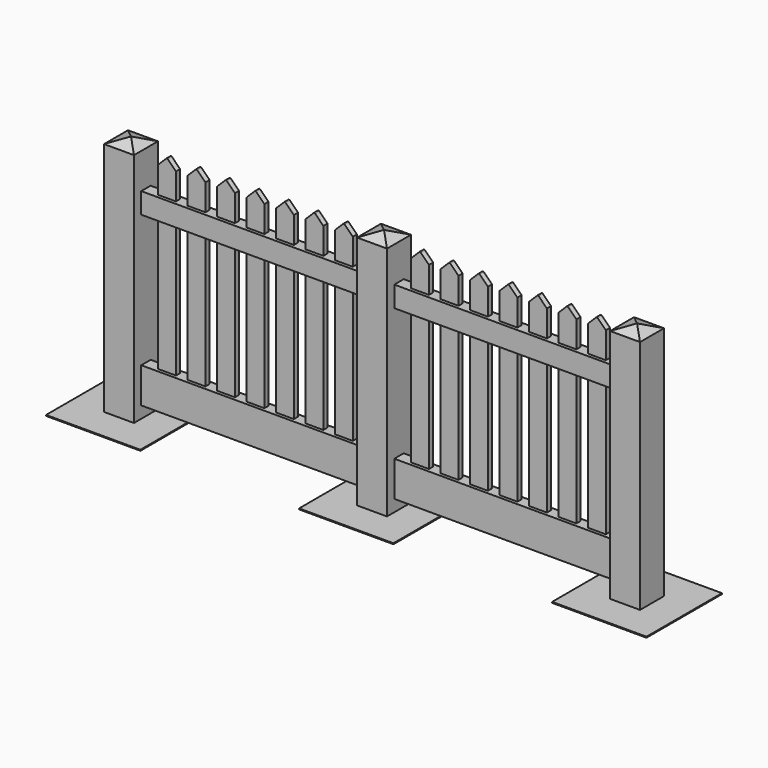
from build123d import *

# Parameters (mm, degrees)
F1_DEPTH      = 63.5
F1_DEPTH_BACK = 63.5
F2_DEPTH      = 25
F2_DEPTH_BACK = 25
F0_W          = 76
F0_H          = 562
F3_DEPTH      = 11
F3_DEPTH_BACK = 11
F4_DEPTH      = 200
F4_DEPTH_BACK = 200
F6_DEPTH      = 5000


with BuildPart() as f1:
    # F0 (on Front) → F1 (new body, two sides)
    with BuildSketch(Plane.XZ) as f1_sk:
        Polygon((348.2347528934, -300), (348.2347528934, -450), (348.2347528934, -500), (411.7347528934, -500), (475.2347528934, -500), (475.2347528934, -450), (475.2347528934, -300), (475.2347528934, 262), (475.2347528934, 350), (475.2347528934, 500), (411.7347528934, 523.3989357948), (348.2347528934, 500), (348.2347528934, 350), (348.2347528934, 262), align=None)
        Polygon((348.2347528934, -300), (348.2347528934, -450), (348.2347528934, -500), (411.7347528934, -500), (475.2347528934, -500), (475.2347528934, -450), (475.2347528934, -300), (475.2347528934, 262), (475.2347528934, 350), (475.2347528934, 500), (411.7347528934, 523.3989357948), (348.2347528934, 500), (348.2347528934, 350), (348.2347528934, 262), align=None)
    extrude(amount=F1_DEPTH)
    extrude(f1_sk.sketch, amount=-F1_DEPTH_BACK)


with BuildPart() as f1b:
    # F0 (on Front) → F1, piece 2 (new body, two sides)
    with BuildSketch(Plane.XZ) as f1_2_sk:
        Polygon((-724.7652471066, -500), (-597.7652471066, -500), (-597.7652471066, -450), (-597.7652471066, -300), (-597.7652471066, 262), (-597.7652471066, 350), (-597.7652471066, 500), (-661.2652471066, 523.3989357948), (-724.7652471066, 500), align=None)
    extrude(amount=F1_DEPTH)
    extrude(f1_2_sk.sketch, amount=-F1_DEPTH_BACK)


with BuildPart() as f1c:
    # F0 (on Front) → F1, piece 3 (new body, two sides)
    with BuildSketch(Plane.XZ) as f1_3_sk:
        Polygon((1421.2347528934, -300), (1421.2347528934, -450), (1421.2347528934, -500), (1548.2347528934, -500), (1548.2347528934, 500), (1484.7347528934, 523.3989357948), (1421.2347528934, 500), (1421.2347528934, 350), (1421.2347528934, 262), align=None)
    extrude(amount=F1_DEPTH)
    extrude(f1_3_sk.sketch, amount=-F1_DEPTH_BACK)


with BuildPart() as f2:
    # F0 (on Front) → F2 (new body, two sides)
    with BuildSketch(Plane.XZ) as f2_sk:
        Polygon((-597.7652471066, -300), (-597.7652471066, -450), (348.2347528934, -450), (348.2347528934, -300), (288.2347528934, -300), (212.2347528934, -300), (163.2347528934, -300), (87.2347528934, -300), (38.2347528934, -300), (-37.7652471066, -300), (-86.7652471066, -300), (-162.7652471066, -300), (-211.7652471066, -300), (-287.7652471066, -300), (-336.7652471066, -300), (-412.7652471066, -300), (-461.7652471066, -300), (-537.7652471066, -300), align=None)
    extrude(amount=F2_DEPTH)
    extrude(f2_sk.sketch, amount=-F2_DEPTH_BACK)


with BuildPart() as f2b:
    # F0 (on Front) → F2, piece 2 (new body, two sides)
    with BuildSketch(Plane.XZ) as f2_2_sk:
        Polygon((-597.7652471066, 350), (-597.7652471066, 262), (-537.7652471066, 262), (-461.7652471066, 262), (-412.7652471066, 262), (-336.7652471066, 262), (-287.7652471066, 262), (-211.7652471066, 262), (-162.7652471066, 262), (-86.7652471066, 262), (-37.7652471066, 262), (38.2347528934, 262), (87.2347528934, 262), (163.2347528934, 262), (212.2347528934, 262), (288.2347528934, 262), (348.2347528934, 262), (348.2347528934, 350), (288.2347528934, 350), (212.2347528934, 350), (163.2347528934, 350), (87.2347528934, 350), (38.2347528934, 350), (-37.7652471066, 350), (-86.7652471066, 350), (-162.7652471066, 350), (-211.7652471066, 350), (-287.7652471066, 350), (-336.7652471066, 350), (-412.7652471066, 350), (-461.7652471066, 350), (-537.7652471066, 350), align=None)
    extrude(amount=F2_DEPTH)
    extrude(f2_2_sk.sketch, amount=-F2_DEPTH_BACK)


with BuildPart() as f2c:
    # F0 (on Front) → F2, piece 3 (new body, two sides)
    with BuildSketch(Plane.XZ) as f2_3_sk:
        Polygon((475.2347528934, 350), (475.2347528934, 262), (535.2347528934, 262), (611.2347528934, 262), (660.2347528934, 262), (736.2347528934, 262), (785.2347528934, 262), (861.2347528934, 262), (910.2347528934, 262), (986.2347528934, 262), (1035.2347528934, 262), (1111.2347528934, 262), (1160.2347528934, 262), (1236.2347528934, 262), (1285.2347528934, 262), (1361.2347528934, 262), (1421.2347528934, 262), (1421.2347528934, 350), (1361.2347528934, 350), (1285.2347528934, 350), (1236.2347528934, 350), (1160.2347528934, 350), (1111.2347528934, 350), (1035.2347528934, 350), (986.2347528934, 350), (910.2347528934, 350), (861.2347528934, 350), (785.2347528934, 350), (736.2347528934, 350), (660.2347528934, 350), (611.2347528934, 350), (535.2347528934, 350), align=None)
    extrude(amount=F2_DEPTH)
    extrude(f2_3_sk.sketch, amount=-F2_DEPTH_BACK)


with BuildPart() as f2d:
    # F0 (on Front) → F2, piece 4 (new body, two sides)
    with BuildSketch(Plane.XZ) as f2_4_sk:
        Polygon((475.2347528934, -300), (475.2347528934, -450), (1421.2347528934, -450), (1421.2347528934, -300), (1361.2347528934, -300), (1285.2347528934, -300), (1236.2347528934, -300), (1160.2347528934, -300), (1111.2347528934, -300), (1035.2347528934, -300), (986.2347528934, -300), (910.2347528934, -300), (861.2347528934, -300), (785.2347528934, -300), (736.2347528934, -300), (660.2347528934, -300), (611.2347528934, -300), (535.2347528934, -300), align=None)
    extrude(amount=F2_DEPTH)
    extrude(f2_4_sk.sketch, amount=-F2_DEPTH_BACK)


with BuildPart() as f3:
    # F0 (on Front) → F3 (new body, two sides)
    with BuildSketch(Plane.XZ) as f3_sk:
        with Locations((250.2347528934, -19)):
            Rectangle(F0_W, F0_H)
    extrude(amount=F3_DEPTH)
    extrude(f3_sk.sketch, amount=-F3_DEPTH_BACK)


with BuildPart() as f3b:
    # F0 (on Front) → F3, piece 2 (new body, two sides)
    with BuildSketch(Plane.XZ) as f3_2_sk:
        with BuildLine():
            Line((212.2347528934, 350), (288.2347528934, 350))
            Line((288.2347528934, 350), (288.2347528934, 462))
            Line((288.2347528934, 462), (253.7702867994, 496.4644660941))
            ThreePointArc((253.7702867994, 496.4644660941), (250.2347528934, 497.9289321881), (246.6992189875, 496.4644660941))
            Line((246.6992189875, 496.4644660941), (212.2347528934, 462))
            Line((212.2347528934, 462), (212.2347528934, 350))
        make_face()
    extrude(amount=F3_DEPTH)
    extrude(f3_2_sk.sketch, amount=-F3_DEPTH_BACK)


with BuildPart() as f3c:
    # F0 (on Front) → F3, piece 3 (new body, two sides)
    with BuildSketch(Plane.XZ) as f3_3_sk:
        with BuildLine():
            Line((87.2347528934, 350), (163.2347528934, 350))
            Line((163.2347528934, 350), (163.2347528934, 462))
            Line((163.2347528934, 462), (128.7702867994, 496.4644660941))
            ThreePointArc((128.7702867994, 496.4644660941), (125.2347528934, 497.9289321881), (121.6992189875, 496.4644660941))
            Line((121.6992189875, 496.4644660941), (87.2347528934, 462))
            Line((87.2347528934, 462), (87.2347528934, 350))
        make_face()
    extrude(amount=F3_DEPTH)
    extrude(f3_3_sk.sketch, amount=-F3_DEPTH_BACK)


with BuildPart() as f3d:
    # F0 (on Front) → F3, piece 4 (new body, two sides)
    with BuildSketch(Plane.XZ) as f3_4_sk:
        with BuildLine():
            Line((-37.7652471066, 350), (38.2347528934, 350))
            Line((38.2347528934, 350), (38.2347528934, 462))
            Line((38.2347528934, 462), (3.7702867994, 496.4644660941))
            ThreePointArc((3.7702867994, 496.4644660941), (0.2347528934, 497.9289321881), (-3.3007810125, 496.4644660941))
            Line((-3.3007810125, 496.4644660941), (-37.7652471066, 462))
            Line((-37.7652471066, 462), (-37.7652471066, 350))
        make_face()
    extrude(amount=F3_DEPTH)
    extrude(f3_4_sk.sketch, amount=-F3_DEPTH_BACK)


with BuildPart() as f3e:
    # F0 (on Front) → F3, piece 5 (new body, two sides)
    with BuildSketch(Plane.XZ) as f3_5_sk:
        with BuildLine():
            Line((-162.7652471066, 462), (-162.7652471066, 350))
            Line((-162.7652471066, 350), (-86.7652471066, 350))
            Line((-86.7652471066, 350), (-86.7652471066, 462))
            Line((-86.7652471066, 462), (-121.2297132006, 496.4644660941))
            ThreePointArc((-121.2297132006, 496.4644660941), (-124.7652471066, 497.9289321881), (-128.3007810125, 496.4644660941))
            Line((-128.3007810125, 496.4644660941), (-162.7652471066, 462))
        make_face()
    extrude(amount=F3_DEPTH)
    extrude(f3_5_sk.sketch, amount=-F3_DEPTH_BACK)


with BuildPart() as f3f:
    # F0 (on Front) → F3, piece 6 (new body, two sides)
    with BuildSketch(Plane.XZ) as f3_6_sk:
        with BuildLine():
            Line((-287.7652471066, 462), (-287.7652471066, 350))
            Line((-287.7652471066, 350), (-211.7652471066, 350))
            Line((-211.7652471066, 350), (-211.7652471066, 462))
            Line((-211.7652471066, 462), (-246.2297132006, 496.4644660941))
            ThreePointArc((-246.2297132006, 496.4644660941), (-249.7652471066, 497.9289321881), (-253.3007810125, 496.4644660941))
            Line((-253.3007810125, 496.4644660941), (-287.7652471066, 462))
        make_face()
    extrude(amount=F3_DEPTH)
    extrude(f3_6_sk.sketch, amount=-F3_DEPTH_BACK)


with BuildPart() as f3g:
    # F0 (on Front) → F3, piece 7 (new body, two sides)
    with BuildSketch(Plane.XZ) as f3_7_sk:
        with BuildLine():
            Line((-537.7652471066, 462), (-537.7652471066, 350))
            Line((-537.7652471066, 350), (-461.7652471066, 350))
            Line((-461.7652471066, 350), (-461.7652471066, 462))
            Line((-461.7652471066, 462), (-496.2297132006, 496.4644660941))
            ThreePointArc((-496.2297132006, 496.4644660941), (-499.7652471066, 497.9289321881), (-503.3007810125, 496.4644660941))
            Line((-503.3007810125, 496.4644660941), (-537.7652471066, 462))
        make_face()
    extrude(amount=F3_DEPTH)
    extrude(f3_7_sk.sketch, amount=-F3_DEPTH_BACK)


with BuildPart() as f3h:
    # F0 (on Front) → F3, piece 8 (new body, two sides)
    with BuildSketch(Plane.XZ) as f3_8_sk:
        with Locations((-499.7652471066, -19)):
            Rectangle(F0_W, F0_H)
    extrude(amount=F3_DEPTH)
    extrude(f3_8_sk.sketch, amount=-F3_DEPTH_BACK)


with BuildPart() as f3i:
    # F0 (on Front) → F3, piece 9 (new body, two sides)
    with BuildSketch(Plane.XZ) as f3_9_sk:
        with Locations((-374.7652471066, -19)):
            Rectangle(F0_W, F0_H)
    extrude(amount=F3_DEPTH)
    extrude(f3_9_sk.sketch, amount=-F3_DEPTH_BACK)


with BuildPart() as f3j:
    # F0 (on Front) → F3, piece 10 (new body, two sides)
    with BuildSketch(Plane.XZ) as f3_10_sk:
        with Locations((-249.7652471066, -19)):
            Rectangle(F0_W, F0_H)
    extrude(amount=F3_DEPTH)
    extrude(f3_10_sk.sketch, amount=-F3_DEPTH_BACK)


with BuildPart() as f3k:
    # F0 (on Front) → F3, piece 11 (new body, two sides)
    with BuildSketch(Plane.XZ) as f3_11_sk:
        with Locations((-124.7652471066, -19)):
            Rectangle(F0_W, F0_H)
    extrude(amount=F3_DEPTH)
    extrude(f3_11_sk.sketch, amount=-F3_DEPTH_BACK)


with BuildPart() as f3l:
    # F0 (on Front) → F3, piece 12 (new body, two sides)
    with BuildSketch(Plane.XZ) as f3_12_sk:
        with Locations((0.2347528934, -19)):
            Rectangle(F0_W, F0_H)
    extrude(amount=F3_DEPTH)
    extrude(f3_12_sk.sketch, amount=-F3_DEPTH_BACK)


with BuildPart() as f3m:
    # F0 (on Front) → F3, piece 13 (new body, two sides)
    with BuildSketch(Plane.XZ) as f3_13_sk:
        with Locations((125.2347528934, -19)):
            Rectangle(F0_W, F0_H)
    extrude(amount=F3_DEPTH)
    extrude(f3_13_sk.sketch, amount=-F3_DEPTH_BACK)


with BuildPart() as f3n:
    # F0 (on Front) → F3, piece 14 (new body, two sides)
    with BuildSketch(Plane.XZ) as f3_14_sk:
        with BuildLine():
            Line((-412.7652471066, 462), (-412.7652471066, 350))
            Line((-412.7652471066, 350), (-336.7652471066, 350))
            Line((-336.7652471066, 350), (-336.7652471066, 462))
            Line((-336.7652471066, 462), (-371.2297132006, 496.4644660941))
            ThreePointArc((-371.2297132006, 496.4644660941), (-374.7652471066, 497.9289321881), (-378.3007810125, 496.4644660941))
            Line((-378.3007810125, 496.4644660941), (-412.7652471066, 462))
        make_face()
    extrude(amount=F3_DEPTH)
    extrude(f3_14_sk.sketch, amount=-F3_DEPTH_BACK)


with BuildPart() as f3o:
    # F0 (on Front) → F3, piece 15 (new body, two sides)
    with BuildSketch(Plane.XZ) as f3_15_sk:
        with Locations((573.2347528934, -19)):
            Rectangle(F0_W, F0_H)
    extrude(amount=F3_DEPTH)
    extrude(f3_15_sk.sketch, amount=-F3_DEPTH_BACK)


with BuildPart() as f3p:
    # F0 (on Front) → F3, piece 16 (new body, two sides)
    with BuildSketch(Plane.XZ) as f3_16_sk:
        with BuildLine():
            Line((535.2347528934, 462), (535.2347528934, 350))
            Line((535.2347528934, 350), (611.2347528934, 350))
            Line((611.2347528934, 350), (611.2347528934, 462))
            Line((611.2347528934, 462), (576.7702867994, 496.4644660941))
            ThreePointArc((576.7702867994, 496.4644660941), (573.2347528934, 497.9289321881), (569.6992189875, 496.4644660941))
            Line((569.6992189875, 496.4644660941), (535.2347528934, 462))
        make_face()
    extrude(amount=F3_DEPTH)
    extrude(f3_16_sk.sketch, amount=-F3_DEPTH_BACK)


with BuildPart() as f3q:
    # F0 (on Front) → F3, piece 17 (new body, two sides)
    with BuildSketch(Plane.XZ) as f3_17_sk:
        with BuildLine():
            Line((660.2347528934, 462), (660.2347528934, 350))
            Line((660.2347528934, 350), (736.2347528934, 350))
            Line((736.2347528934, 350), (736.2347528934, 462))
            Line((736.2347528934, 462), (701.7702867994, 496.4644660941))
            ThreePointArc((701.7702867994, 496.4644660941), (698.2347528934, 497.9289321881), (694.6992189875, 496.4644660941))
            Line((694.6992189875, 496.4644660941), (660.2347528934, 462))
        make_face()
    extrude(amount=F3_DEPTH)
    extrude(f3_17_sk.sketch, amount=-F3_DEPTH_BACK)


with BuildPart() as f3r:
    # F0 (on Front) → F3, piece 18 (new body, two sides)
    with BuildSketch(Plane.XZ) as f3_18_sk:
        with BuildLine():
            Line((785.2347528934, 462), (785.2347528934, 350))
            Line((785.2347528934, 350), (861.2347528934, 350))
            Line((861.2347528934, 350), (861.2347528934, 462))
            Line((861.2347528934, 462), (826.7702867994, 496.4644660941))
            ThreePointArc((826.7702867994, 496.4644660941), (823.2347528934, 497.9289321881), (819.6992189875, 496.4644660941))
            Line((819.6992189875, 496.4644660941), (785.2347528934, 462))
        make_face()
    extrude(amount=F3_DEPTH)
    extrude(f3_18_sk.sketch, amount=-F3_DEPTH_BACK)


with BuildPart() as f3s:
    # F0 (on Front) → F3, piece 19 (new body, two sides)
    with BuildSketch(Plane.XZ) as f3_19_sk:
        with BuildLine():
            Line((910.2347528934, 462), (910.2347528934, 350))
            Line((910.2347528934, 350), (986.2347528934, 350))
            Line((986.2347528934, 350), (986.2347528934, 462))
            Line((986.2347528934, 462), (951.7702867994, 496.4644660941))
            ThreePointArc((951.7702867994, 496.4644660941), (948.2347528934, 497.9289321881), (944.6992189875, 496.4644660941))
            Line((944.6992189875, 496.4644660941), (910.2347528934, 462))
        make_face()
    extrude(amount=F3_DEPTH)
    extrude(f3_19_sk.sketch, amount=-F3_DEPTH_BACK)


with BuildPart() as f3t:
    # F0 (on Front) → F3, piece 20 (new body, two sides)
    with BuildSketch(Plane.XZ) as f3_20_sk:
        with BuildLine():
            Line((1035.2347528934, 350), (1111.2347528934, 350))
            Line((1111.2347528934, 350), (1111.2347528934, 462))
            Line((1111.2347528934, 462), (1076.7702867994, 496.4644660941))
            ThreePointArc((1076.7702867994, 496.4644660941), (1073.2347528934, 497.9289321881), (1069.6992189875, 496.4644660941))
            Line((1069.6992189875, 496.4644660941), (1035.2347528934, 462))
            Line((1035.2347528934, 462), (1035.2347528934, 350))
        make_face()
    extrude(amount=F3_DEPTH)
    extrude(f3_20_sk.sketch, amount=-F3_DEPTH_BACK)


with BuildPart() as f3u:
    # F0 (on Front) → F3, piece 21 (new body, two sides)
    with BuildSketch(Plane.XZ) as f3_21_sk:
        with BuildLine():
            Line((1160.2347528934, 350), (1236.2347528934, 350))
            Line((1236.2347528934, 350), (1236.2347528934, 462))
            Line((1236.2347528934, 462), (1201.7702867994, 496.4644660941))
            ThreePointArc((1201.7702867994, 496.4644660941), (1198.2347528934, 497.9289321881), (1194.6992189875, 496.4644660941))
            Line((1194.6992189875, 496.4644660941), (1160.2347528934, 462))
            Line((1160.2347528934, 462), (1160.2347528934, 350))
        make_face()
    extrude(amount=F3_DEPTH)
    extrude(f3_21_sk.sketch, amount=-F3_DEPTH_BACK)


with BuildPart() as f3v:
    # F0 (on Front) → F3, piece 22 (new body, two sides)
    with BuildSketch(Plane.XZ) as f3_22_sk:
        with BuildLine():
            Line((1285.2347528934, 350), (1361.2347528934, 350))
            Line((1361.2347528934, 350), (1361.2347528934, 462))
            Line((1361.2347528934, 462), (1326.7702867994, 496.4644660941))
            ThreePointArc((1326.7702867994, 496.4644660941), (1323.2347528934, 497.9289321881), (1319.6992189875, 496.4644660941))
            Line((1319.6992189875, 496.4644660941), (1285.2347528934, 462))
            Line((1285.2347528934, 462), (1285.2347528934, 350))
        make_face()
    extrude(amount=F3_DEPTH)
    extrude(f3_22_sk.sketch, amount=-F3_DEPTH_BACK)


with BuildPart() as f3w:
    # F0 (on Front) → F3, piece 23 (new body, two sides)
    with BuildSketch(Plane.XZ) as f3_23_sk:
        with Locations((1323.2347528934, -19)):
            Rectangle(F0_W, F0_H)
    extrude(amount=F3_DEPTH)
    extrude(f3_23_sk.sketch, amount=-F3_DEPTH_BACK)


with BuildPart() as f3x:
    # F0 (on Front) → F3, piece 24 (new body, two sides)
    with BuildSketch(Plane.XZ) as f3_24_sk:
        with Locations((1198.2347528934, -19)):
            Rectangle(F0_W, F0_H)
    extrude(amount=F3_DEPTH)
    extrude(f3_24_sk.sketch, amount=-F3_DEPTH_BACK)


with BuildPart() as f3y:
    # F0 (on Front) → F3, piece 25 (new body, two sides)
    with BuildSketch(Plane.XZ) as f3_25_sk:
        with Locations((1073.2347528934, -19)):
            Rectangle(F0_W, F0_H)
    extrude(amount=F3_DEPTH)
    extrude(f3_25_sk.sketch, amount=-F3_DEPTH_BACK)


with BuildPart() as f3z:
    # F0 (on Front) → F3, piece 26 (new body, two sides)
    with BuildSketch(Plane.XZ) as f3_26_sk:
        with Locations((948.2347528934, -19)):
            Rectangle(F0_W, F0_H)
    extrude(amount=F3_DEPTH)
    extrude(f3_26_sk.sketch, amount=-F3_DEPTH_BACK)


with BuildPart() as f3ba:
    # F0 (on Front) → F3, piece 27 (new body, two sides)
    with BuildSketch(Plane.XZ) as f3_27_sk:
        with Locations((823.2347528934, -19)):
            Rectangle(F0_W, F0_H)
    extrude(amount=F3_DEPTH)
    extrude(f3_27_sk.sketch, amount=-F3_DEPTH_BACK)


with BuildPart() as f3bb:
    # F0 (on Front) → F3, piece 28 (new body, two sides)
    with BuildSketch(Plane.XZ) as f3_28_sk:
        with Locations((698.2347528934, -19)):
            Rectangle(F0_W, F0_H)
    extrude(amount=F3_DEPTH)
    extrude(f3_28_sk.sketch, amount=-F3_DEPTH_BACK)


with BuildPart() as f4:
    # F0 (on Front) → F4 (new body, two sides)
    with BuildSketch(Plane.XZ) as f4_sk:
        Polygon((-461.2652471066, -500), (-597.7652471066, -500), (-724.7652471066, -500), (-861.2652471066, -500), (-861.2652471066, -504), (-461.2652471066, -504), align=None)
    extrude(amount=F4_DEPTH)
    extrude(f4_sk.sketch, amount=-F4_DEPTH_BACK)


with BuildPart() as f4b:
    # F0 (on Front) → F4, piece 2 (new body, two sides)
    with BuildSketch(Plane.XZ) as f4_2_sk:
        Polygon((475.2347528934, -500), (411.7347528934, -500), (411.7347528934, -504), (611.7347528934, -504), (611.7347528934, -500), align=None)
        Polygon((411.7347528934, -500), (348.2347528934, -500), (211.7347528934, -500), (211.7347528934, -504), (411.7347528934, -504), align=None)
        Polygon((475.2347528934, -500), (411.7347528934, -500), (411.7347528934, -504), (611.7347528934, -504), (611.7347528934, -500), align=None)
        Polygon((411.7347528934, -500), (348.2347528934, -500), (211.7347528934, -500), (211.7347528934, -504), (411.7347528934, -504), align=None)
    extrude(amount=F4_DEPTH)
    extrude(f4_2_sk.sketch, amount=-F4_DEPTH_BACK)


with BuildPart() as f4c:
    # F0 (on Front) → F4, piece 3 (new body, two sides)
    with BuildSketch(Plane.XZ) as f4_3_sk:
        Polygon((1548.2347528934, -500), (1421.2347528934, -500), (1284.7347528934, -500), (1284.7347528934, -504), (1684.7347528934, -504), (1684.7347528934, -500), align=None)
    extrude(amount=F4_DEPTH)
    extrude(f4_3_sk.sketch, amount=-F4_DEPTH_BACK)


with BuildPart() as f6_tool:
    # F5 (on face) → F6 (new body)
    with BuildSketch(Plane.YZ.offset(1548.2347528934)):
        Polygon((-79.3246179819, 530.8639407158), (-63.5, 500), (0, 523.358643055), (63.5, 500), (67.9666250944, 528.9875864983), align=None)
    extrude(amount=-F6_DEPTH)


with BuildPart() as f1_1:
    add(f1.part)

    # F6: cut by f6_tool
    add(f6_tool.part, mode=Mode.SUBTRACT)


with BuildPart() as f1b_1:
    add(f1b.part)

    # F6: cut by f6_tool
    add(f6_tool.part, mode=Mode.SUBTRACT)


with BuildPart() as f1c_1:
    add(f1c.part)

    # F6: cut by f6_tool
    add(f6_tool.part, mode=Mode.SUBTRACT)


solid = Compound([f2.part, f2b.part, f2c.part, f2d.part, f3.part, f3b.part, f3c.part, f3d.part, f3e.part, f3f.part, f3g.part, f3h.part, f3i.part, f3j.part, f3k.part, f3l.part, f3m.part, f3n.part, f3o.part, f3p.part, f3q.part, f3r.part, f3s.part, f3t.part, f3u.part, f3v.part, f3w.part, f3x.part, f3y.part, f3z.part, f3ba.part, f3bb.part, f4.part, f4b.part, f4c.part, f1_1.part, f1b_1.part, f1c_1.part])
